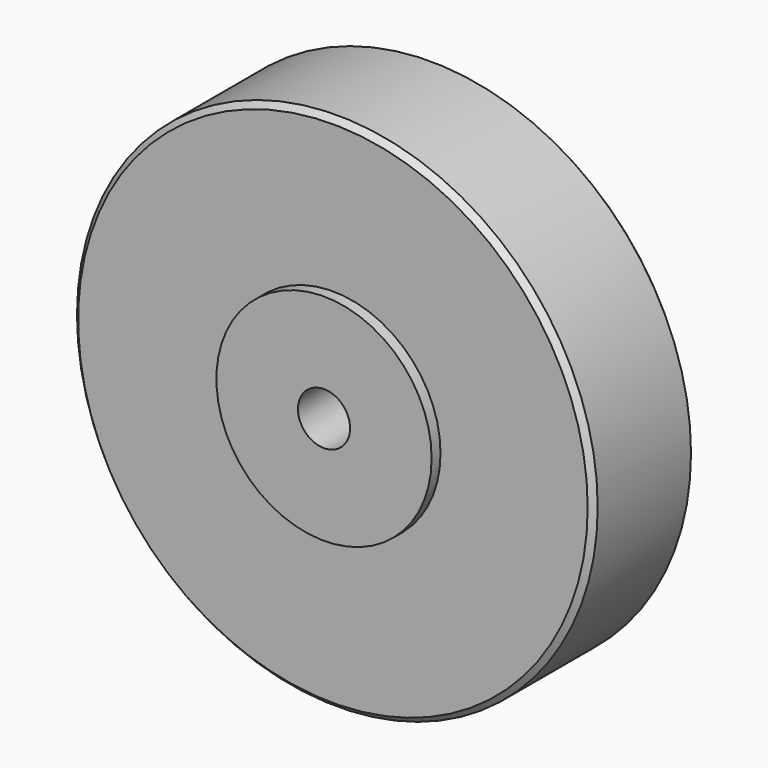
from build123d import *

# Parameters (mm, degrees)
F1_START = -0.508
F0_R     = 11.90625
F0_R_2   = 4.92125
F1_DEPTH = 5.842
F0_R_3   = 1.19126
F2_DEPTH = 9.525
F3_SIZE  = 0.254


with BuildPart() as f1:
    # F0 (on Front) → F1 (new body)
    with BuildSketch(Plane.XZ.offset(F1_START)):
        Circle(F0_R)
        Circle(F0_R_2, mode=Mode.SUBTRACT)
    extrude(amount=-F1_DEPTH)

    # F0 (on Front) → F2 (join)
    with BuildSketch(Plane.XZ):
        Circle(F0_R_2)
        Circle(F0_R_3, mode=Mode.SUBTRACT)
    extrude(amount=-F2_DEPTH)

    # F3
    f3_edges = [f1.edges().sort_by_distance(p)[0] for p in [
        (-11.90625, 6.35, 0),
        (-11.90625, 0.508, 0),
        (-4.92125, 9.525, 0),
        (-4.92125, 6.35, 0),
    ]]
    chamfer(f3_edges, length=F3_SIZE)

    # F4 (on Right) → F5 (revolve, cut)
    with BuildSketch(Plane.YZ):
        Polygon((6.5216665858, 5.5874292748), (8.0233332929, 3.7639748771), (9.525, 5.5874292748), align=None)
    revolve(axis=Axis((0, 0, 0), (0, -1, 0)), mode=Mode.SUBTRACT)


solid = f1.part
